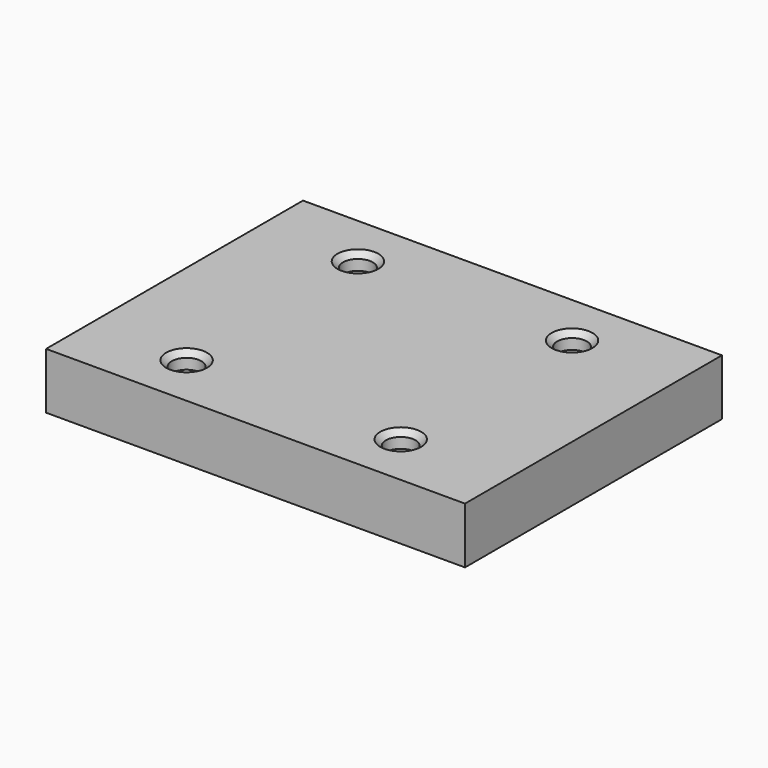
from build123d import *

# Parameters (mm, degrees)
SKETCH_W        = 52.175
SKETCH_H        = 40
PAD_DEPTH       = 7
SKETCH001_R     = 1.85
POCKET_DEPTH    = 2
SKETCH002_R     = 2.4
POCKET001_DEPTH = 3
CHAMFER_SIZE    = 0.7


with BuildPart() as part:
    # Sketch → Pad (new body)
    with BuildSketch(Plane.XY):
        with Locations((-26.0875, 0)):
            Rectangle(SKETCH_W, SKETCH_H)
    extrude(amount=-PAD_DEPTH)

    # Sketch001 → Pocket (cut)
    with BuildSketch(Plane.XY):
        with Locations((-40.005, 13.335)):
            Circle(SKETCH001_R)
        with Locations((-13.335, 13.335)):
            Circle(SKETCH001_R)
        with Locations((-40.005, -13.335)):
            Circle(SKETCH001_R)
        with Locations((-13.335, -13.335)):
            Circle(SKETCH001_R)
    extrude(amount=-POCKET_DEPTH, mode=Mode.SUBTRACT)

    # Sketch002 (on DatumPlane) → Pocket001 (cut)
    with BuildSketch(Plane(origin=(0, 0, -7), x_dir=(-1, 0, 0), z_dir=(0, 0, -1))):
        with Locations((26.0875, 0)):
            Circle(SKETCH002_R)
    extrude(amount=-POCKET001_DEPTH, mode=Mode.SUBTRACT)

    # Chamfer
    chamfer_edges = [part.edges().sort_by_distance(p)[0] for p in [
        (-15.185, -13.335, 0),
        (-41.855, -13.335, 0),
        (-41.855, 13.335, 0),
        (-15.185, 13.335, 0),
    ]]
    chamfer(chamfer_edges, length=CHAMFER_SIZE)


solid = part.part
